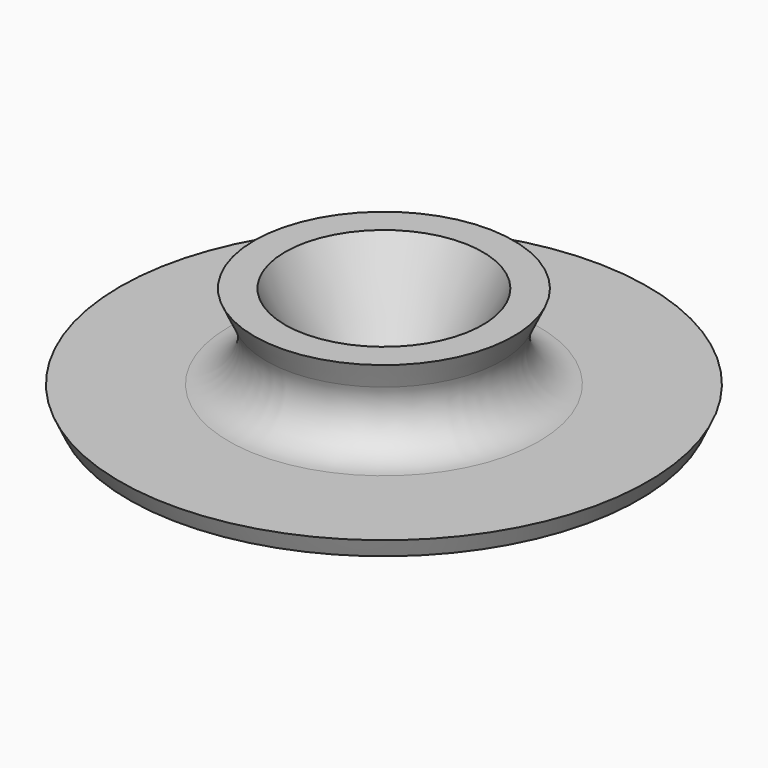
from build123d import *

# Parameters (mm, degrees)
F3_R = 5


with BuildPart() as f2:
    # F0 (on Front) → F2 (revolve)
    with BuildSketch(Plane.XZ):
        Polygon((-7.5, 0), (-5, 0), (-11.994615, 15), (-15.744615, 15), (-10.972315, 4.765769), (-32.048318, 4.765769), (-30.991772, 2.5), (-8.665769, 2.5), align=None)
    revolve(axis=Axis((0, 0, 12.728581), (0, 0, 1)))

    # F3
    f3_edges = [f2.edges().sort_by_distance(p)[0] for p in [
        (10.972315, 0, 4.765769),
    ]]
    fillet(f3_edges, radius=F3_R)


solid = f2.part
